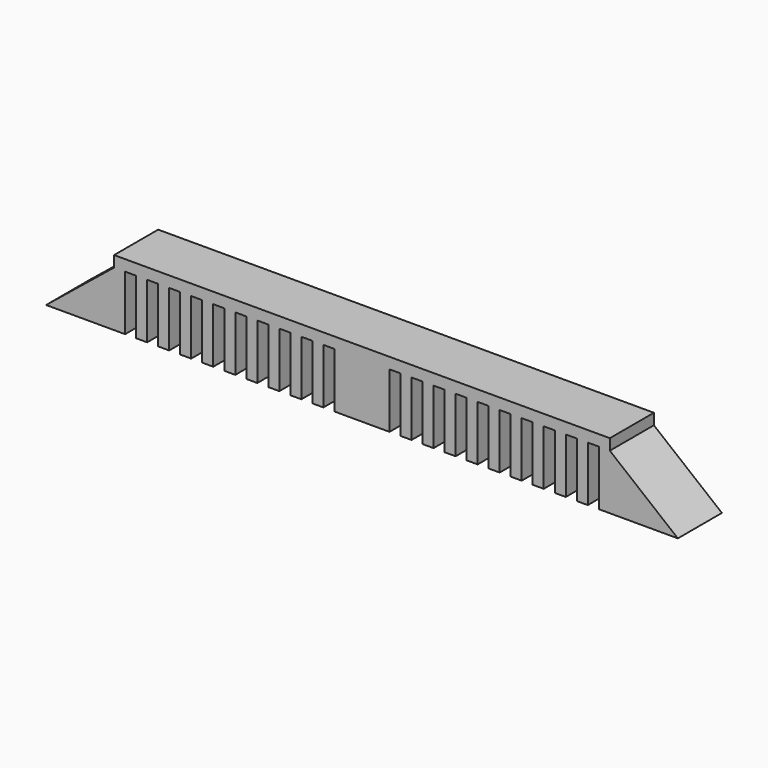
from build123d import *

# Parameters (mm, degrees)
F0_W     = 1
F0_H     = 5
F1_DEPTH = 5


with BuildPart() as f1:
    # F0 (on Front) → F1 (new body)
    with BuildSketch(Plane.XZ):
        Polygon((-21.5, -5), (-21.5, 0), (-20.5, 0), (-19.5, 0), (-18.5, 0), (-17.5, 0), (-16.5, 0), (-15.5, 0), (-14.5, 0), (-13.5, 0), (-12.5, 0), (-11.5, 0), (-10.5, 0), (-9.5, 0), (-8.5, 0), (-7.5, 0), (-6.5, 0), (-6.5, -5), (-5.5, -5), (-5.5, 0), (-4.5, 0), (-4.5, -5), (-3.5, -5), (-3.5, 0), (-2.5, 0), (-2.5, -5), (2.5, -5), (2.5, 0), (3.5, 0), (3.5, -5), (4.5, -5), (4.5, 0), (5.5, 0), (5.5, -5), (6.5, -5), (6.5, 0), (7.5, 0), (7.5, -5), (8.5, -5), (8.5, 0), (9.5, 0), (9.5, -5), (10.5, -5), (10.5, 0), (11.5, 0), (11.5, -5), (12.5, -5), (12.5, 0), (13.5, 0), (13.5, -5), (14.5, -5), (14.5, 0), (15.5, 0), (15.5, -5), (16.5, -5), (16.5, 0), (17.5, 0), (17.5, -5), (18.5, -5), (18.5, 0), (19.5, 0), (19.5, -5), (20.5, -5), (20.5, 0), (21.5, 0), (21.5, -5), (28.674486, -5), (22.5, 0), (22.5, 1), (-22.5, 1), (-22.5, 0), (-28.674486, -5), align=None)
        with Locations((-20, -2.5)):
            Rectangle(F0_W, F0_H)
        with Locations((-18, -2.5)):
            Rectangle(F0_W, F0_H)
        with Locations((-16, -2.5)):
            Rectangle(F0_W, F0_H)
        with Locations((-14, -2.5)):
            Rectangle(F0_W, F0_H)
        with Locations((-12, -2.5)):
            Rectangle(F0_W, F0_H)
        with Locations((-10, -2.5)):
            Rectangle(F0_W, F0_H)
        with Locations((-8, -2.5)):
            Rectangle(F0_W, F0_H)
    extrude(amount=F1_DEPTH)


solid = f1.part
